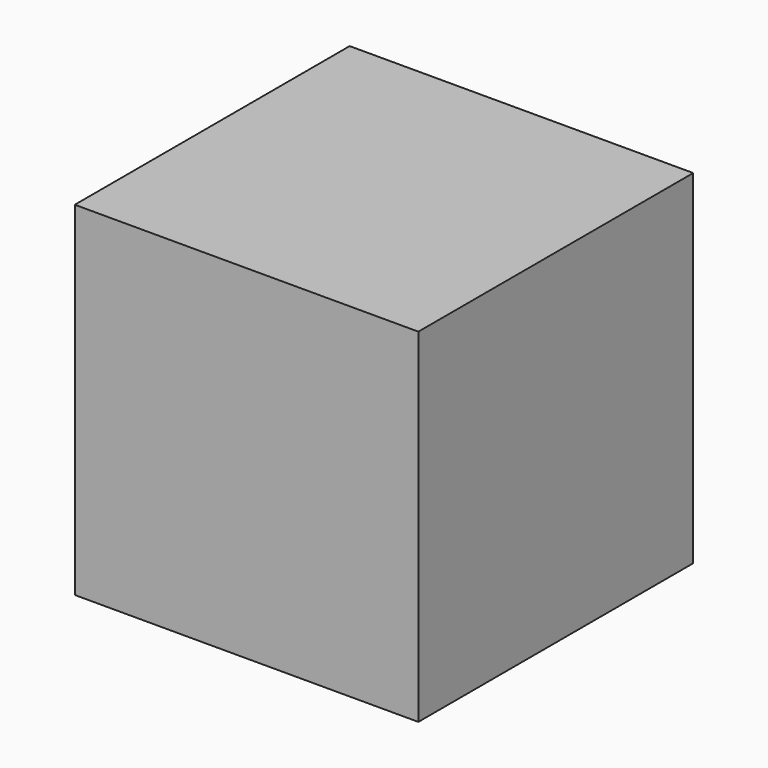
from build123d import *

# Parameters (mm, degrees)
SKETCH_W  = 200
SKETCH_H  = 200
PAD_DEPTH = 100


with BuildPart() as part:
    # Sketch → Pad (new body, symmetric)
    with BuildSketch(Plane.XY):
        Rectangle(SKETCH_W, SKETCH_H)
    extrude(amount=PAD_DEPTH, both=True)


solid = part.part
